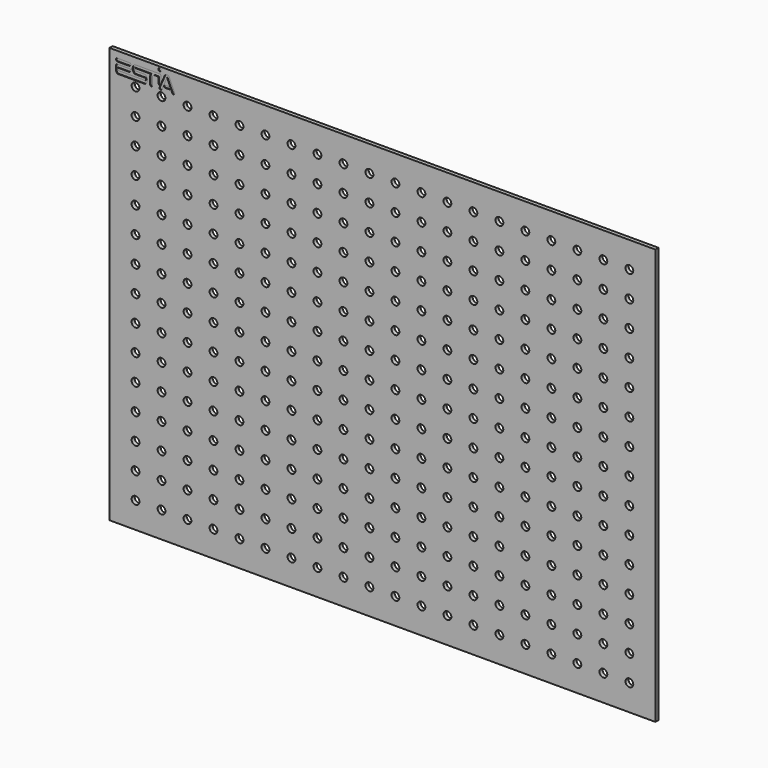
from build123d import *

# Parameters (mm, degrees)
F0_W     = 420
F0_H     = 320
F1_DEPTH = 3
F3_R     = 3
F4_DEPTH = 25
F5_DEPTH = 0.5


with BuildPart() as f1:
    # F0 (on Front) → F1 (new body)
    with BuildSketch(Plane.XZ):
        with Locations((210, 160)):
            Rectangle(F0_W, F0_H)
    extrude(amount=F1_DEPTH)

    # F3 (on face) → F4 (cut)
    with BuildSketch(Plane.XZ.offset(3)):
        with Locations((20, 300)):
            Circle(F3_R)
        with Locations((20, 280)):
            Circle(F3_R)
        with Locations((20, 260)):
            Circle(F3_R)
        with Locations((20, 240)):
            Circle(F3_R)
        with Locations((20, 220)):
            Circle(F3_R)
        with Locations((20, 200)):
            Circle(F3_R)
        with Locations((20, 180)):
            Circle(F3_R)
        with Locations((20, 160)):
            Circle(F3_R)
        with Locations((20, 140)):
            Circle(F3_R)
        with Locations((20, 120)):
            Circle(F3_R)
        with Locations((20, 100)):
            Circle(F3_R)
        with Locations((20, 80)):
            Circle(F3_R)
        with Locations((20, 60)):
            Circle(F3_R)
        with Locations((20, 40)):
            Circle(F3_R)
        with Locations((20, 20)):
            Circle(F3_R)
        with Locations((40, 300)):
            Circle(F3_R)
        with Locations((40, 280)):
            Circle(F3_R)
        with Locations((40, 260)):
            Circle(F3_R)
        with Locations((40, 240)):
            Circle(F3_R)
        with Locations((40, 220)):
            Circle(F3_R)
        with Locations((40, 200)):
            Circle(F3_R)
        with Locations((40, 180)):
            Circle(F3_R)
        with Locations((40, 160)):
            Circle(F3_R)
        with Locations((40, 140)):
            Circle(F3_R)
        with Locations((40, 120)):
            Circle(F3_R)
        with Locations((40, 100)):
            Circle(F3_R)
        with Locations((40, 80)):
            Circle(F3_R)
        with Locations((40, 60)):
            Circle(F3_R)
        with Locations((40, 40)):
            Circle(F3_R)
        with Locations((40, 20)):
            Circle(F3_R)
        with Locations((60, 300)):
            Circle(F3_R)
        with Locations((60, 280)):
            Circle(F3_R)
        with Locations((60, 260)):
            Circle(F3_R)
        with Locations((60, 240)):
            Circle(F3_R)
        with Locations((60, 220)):
            Circle(F3_R)
        with Locations((60, 200)):
            Circle(F3_R)
        with Locations((60, 180)):
            Circle(F3_R)
        with Locations((60, 160)):
            Circle(F3_R)
        with Locations((60, 140)):
            Circle(F3_R)
        with Locations((60, 120)):
            Circle(F3_R)
        with Locations((60, 100)):
            Circle(F3_R)
        with Locations((60, 80)):
            Circle(F3_R)
        with Locations((60, 60)):
            Circle(F3_R)
        with Locations((60, 40)):
            Circle(F3_R)
        with Locations((60, 20)):
            Circle(F3_R)
        with Locations((80, 300)):
            Circle(F3_R)
        with Locations((80, 280)):
            Circle(F3_R)
        with Locations((80, 260)):
            Circle(F3_R)
        with Locations((80, 240)):
            Circle(F3_R)
        with Locations((80, 220)):
            Circle(F3_R)
        with Locations((80, 200)):
            Circle(F3_R)
        with Locations((80, 180)):
            Circle(F3_R)
        with Locations((80, 160)):
            Circle(F3_R)
        with Locations((80, 140)):
            Circle(F3_R)
        with Locations((80, 120)):
            Circle(F3_R)
        with Locations((80, 100)):
            Circle(F3_R)
        with Locations((80, 80)):
            Circle(F3_R)
        with Locations((80, 60)):
            Circle(F3_R)
        with Locations((80, 40)):
            Circle(F3_R)
        with Locations((80, 20)):
            Circle(F3_R)
        with Locations((100, 300)):
            Circle(F3_R)
        with Locations((100, 280)):
            Circle(F3_R)
        with Locations((100, 260)):
            Circle(F3_R)
        with Locations((100, 240)):
            Circle(F3_R)
        with Locations((100, 220)):
            Circle(F3_R)
        with Locations((100, 200)):
            Circle(F3_R)
        with Locations((100, 180)):
            Circle(F3_R)
        with Locations((100, 160)):
            Circle(F3_R)
        with Locations((100, 140)):
            Circle(F3_R)
        with Locations((100, 120)):
            Circle(F3_R)
        with Locations((100, 100)):
            Circle(F3_R)
        with Locations((100, 80)):
            Circle(F3_R)
        with Locations((100, 60)):
            Circle(F3_R)
        with Locations((100, 40)):
            Circle(F3_R)
        with Locations((100, 20)):
            Circle(F3_R)
        with Locations((120, 300)):
            Circle(F3_R)
        with Locations((120, 280)):
            Circle(F3_R)
        with Locations((120, 260)):
            Circle(F3_R)
        with Locations((120, 240)):
            Circle(F3_R)
        with Locations((120, 220)):
            Circle(F3_R)
        with Locations((120, 200)):
            Circle(F3_R)
        with Locations((120, 180)):
            Circle(F3_R)
        with Locations((120, 160)):
            Circle(F3_R)
        with Locations((120, 140)):
            Circle(F3_R)
        with Locations((120, 120)):
            Circle(F3_R)
        with Locations((120, 100)):
            Circle(F3_R)
        with Locations((120, 80)):
            Circle(F3_R)
        with Locations((120, 60)):
            Circle(F3_R)
        with Locations((120, 40)):
            Circle(F3_R)
        with Locations((120, 20)):
            Circle(F3_R)
        with Locations((140, 300)):
            Circle(F3_R)
        with Locations((140, 280)):
            Circle(F3_R)
        with Locations((140, 260)):
            Circle(F3_R)
        with Locations((140, 240)):
            Circle(F3_R)
        with Locations((140, 220)):
            Circle(F3_R)
        with Locations((140, 200)):
            Circle(F3_R)
        with Locations((140, 180)):
            Circle(F3_R)
        with Locations((140, 160)):
            Circle(F3_R)
        with Locations((140, 140)):
            Circle(F3_R)
        with Locations((140, 120)):
            Circle(F3_R)
        with Locations((140, 100)):
            Circle(F3_R)
        with Locations((140, 80)):
            Circle(F3_R)
        with Locations((140, 60)):
            Circle(F3_R)
        with Locations((140, 40)):
            Circle(F3_R)
        with Locations((140, 20)):
            Circle(F3_R)
        with Locations((160, 300)):
            Circle(F3_R)
        with Locations((160, 280)):
            Circle(F3_R)
        with Locations((160, 260)):
            Circle(F3_R)
        with Locations((160, 240)):
            Circle(F3_R)
        with Locations((160, 220)):
            Circle(F3_R)
        with Locations((160, 200)):
            Circle(F3_R)
        with Locations((160, 180)):
            Circle(F3_R)
        with Locations((160, 160)):
            Circle(F3_R)
        with Locations((160, 140)):
            Circle(F3_R)
        with Locations((160, 120)):
            Circle(F3_R)
        with Locations((160, 100)):
            Circle(F3_R)
        with Locations((160, 80)):
            Circle(F3_R)
        with Locations((160, 60)):
            Circle(F3_R)
        with Locations((160, 40)):
            Circle(F3_R)
        with Locations((160, 20)):
            Circle(F3_R)
        with Locations((180, 300)):
            Circle(F3_R)
        with Locations((180, 280)):
            Circle(F3_R)
        with Locations((180, 260)):
            Circle(F3_R)
        with Locations((180, 240)):
            Circle(F3_R)
        with Locations((180, 220)):
            Circle(F3_R)
        with Locations((180, 200)):
            Circle(F3_R)
        with Locations((180, 180)):
            Circle(F3_R)
        with Locations((180, 160)):
            Circle(F3_R)
        with Locations((180, 140)):
            Circle(F3_R)
        with Locations((180, 120)):
            Circle(F3_R)
        with Locations((180, 100)):
            Circle(F3_R)
        with Locations((180, 80)):
            Circle(F3_R)
        with Locations((180, 60)):
            Circle(F3_R)
        with Locations((180, 40)):
            Circle(F3_R)
        with Locations((180, 20)):
            Circle(F3_R)
        with Locations((200, 300)):
            Circle(F3_R)
        with Locations((200, 280)):
            Circle(F3_R)
        with Locations((200, 260)):
            Circle(F3_R)
        with Locations((200, 240)):
            Circle(F3_R)
        with Locations((200, 220)):
            Circle(F3_R)
        with Locations((200, 200)):
            Circle(F3_R)
        with Locations((200, 180)):
            Circle(F3_R)
        with Locations((200, 160)):
            Circle(F3_R)
        with Locations((200, 140)):
            Circle(F3_R)
        with Locations((200, 120)):
            Circle(F3_R)
        with Locations((200, 100)):
            Circle(F3_R)
        with Locations((200, 80)):
            Circle(F3_R)
        with Locations((200, 60)):
            Circle(F3_R)
        with Locations((200, 40)):
            Circle(F3_R)
        with Locations((200, 20)):
            Circle(F3_R)
        with Locations((220, 300)):
            Circle(F3_R)
        with Locations((220, 280)):
            Circle(F3_R)
        with Locations((220, 260)):
            Circle(F3_R)
        with Locations((220, 240)):
            Circle(F3_R)
        with Locations((220, 220)):
            Circle(F3_R)
        with Locations((220, 200)):
            Circle(F3_R)
        with Locations((220, 180)):
            Circle(F3_R)
        with Locations((220, 160)):
            Circle(F3_R)
        with Locations((220, 140)):
            Circle(F3_R)
        with Locations((220, 120)):
            Circle(F3_R)
        with Locations((220, 100)):
            Circle(F3_R)
        with Locations((220, 80)):
            Circle(F3_R)
        with Locations((220, 60)):
            Circle(F3_R)
        with Locations((220, 40)):
            Circle(F3_R)
        with Locations((220, 20)):
            Circle(F3_R)
        with Locations((240, 300)):
            Circle(F3_R)
        with Locations((240, 280)):
            Circle(F3_R)
        with Locations((240, 260)):
            Circle(F3_R)
        with Locations((240, 240)):
            Circle(F3_R)
        with Locations((240, 220)):
            Circle(F3_R)
        with Locations((240, 200)):
            Circle(F3_R)
        with Locations((240, 180)):
            Circle(F3_R)
        with Locations((240, 160)):
            Circle(F3_R)
        with Locations((240, 140)):
            Circle(F3_R)
        with Locations((240, 120)):
            Circle(F3_R)
        with Locations((240, 100)):
            Circle(F3_R)
        with Locations((240, 80)):
            Circle(F3_R)
        with Locations((240, 60)):
            Circle(F3_R)
        with Locations((240, 40)):
            Circle(F3_R)
        with Locations((240, 20)):
            Circle(F3_R)
        with Locations((260, 300)):
            Circle(F3_R)
        with Locations((260, 280)):
            Circle(F3_R)
        with Locations((260, 260)):
            Circle(F3_R)
        with Locations((260, 240)):
            Circle(F3_R)
        with Locations((260, 220)):
            Circle(F3_R)
        with Locations((260, 200)):
            Circle(F3_R)
        with Locations((260, 180)):
            Circle(F3_R)
        with Locations((260, 160)):
            Circle(F3_R)
        with Locations((260, 140)):
            Circle(F3_R)
        with Locations((260, 120)):
            Circle(F3_R)
        with Locations((260, 100)):
            Circle(F3_R)
        with Locations((260, 80)):
            Circle(F3_R)
        with Locations((260, 60)):
            Circle(F3_R)
        with Locations((260, 40)):
            Circle(F3_R)
        with Locations((260, 20)):
            Circle(F3_R)
        with Locations((280, 300)):
            Circle(F3_R)
        with Locations((280, 280)):
            Circle(F3_R)
        with Locations((280, 260)):
            Circle(F3_R)
        with Locations((280, 240)):
            Circle(F3_R)
        with Locations((280, 220)):
            Circle(F3_R)
        with Locations((280, 200)):
            Circle(F3_R)
        with Locations((280, 180)):
            Circle(F3_R)
        with Locations((280, 160)):
            Circle(F3_R)
        with Locations((280, 140)):
            Circle(F3_R)
        with Locations((280, 120)):
            Circle(F3_R)
        with Locations((280, 100)):
            Circle(F3_R)
        with Locations((280, 80)):
            Circle(F3_R)
        with Locations((280, 60)):
            Circle(F3_R)
        with Locations((280, 40)):
            Circle(F3_R)
        with Locations((280, 20)):
            Circle(F3_R)
        with Locations((300, 300)):
            Circle(F3_R)
        with Locations((300, 280)):
            Circle(F3_R)
        with Locations((300, 260)):
            Circle(F3_R)
        with Locations((300, 240)):
            Circle(F3_R)
        with Locations((300, 220)):
            Circle(F3_R)
        with Locations((300, 200)):
            Circle(F3_R)
        with Locations((300, 180)):
            Circle(F3_R)
        with Locations((300, 160)):
            Circle(F3_R)
        with Locations((300, 140)):
            Circle(F3_R)
        with Locations((300, 120)):
            Circle(F3_R)
        with Locations((300, 100)):
            Circle(F3_R)
        with Locations((300, 80)):
            Circle(F3_R)
        with Locations((300, 60)):
            Circle(F3_R)
        with Locations((300, 40)):
            Circle(F3_R)
        with Locations((300, 20)):
            Circle(F3_R)
        with Locations((320, 300)):
            Circle(F3_R)
        with Locations((320, 280)):
            Circle(F3_R)
        with Locations((320, 260)):
            Circle(F3_R)
        with Locations((320, 240)):
            Circle(F3_R)
        with Locations((320, 220)):
            Circle(F3_R)
        with Locations((320, 200)):
            Circle(F3_R)
        with Locations((320, 180)):
            Circle(F3_R)
        with Locations((320, 160)):
            Circle(F3_R)
        with Locations((320, 140)):
            Circle(F3_R)
        with Locations((320, 120)):
            Circle(F3_R)
        with Locations((320, 100)):
            Circle(F3_R)
        with Locations((320, 80)):
            Circle(F3_R)
        with Locations((320, 60)):
            Circle(F3_R)
        with Locations((320, 40)):
            Circle(F3_R)
        with Locations((320, 20)):
            Circle(F3_R)
        with Locations((340, 300)):
            Circle(F3_R)
        with Locations((340, 280)):
            Circle(F3_R)
        with Locations((340, 260)):
            Circle(F3_R)
        with Locations((340, 240)):
            Circle(F3_R)
        with Locations((340, 220)):
            Circle(F3_R)
        with Locations((340, 200)):
            Circle(F3_R)
        with Locations((340, 180)):
            Circle(F3_R)
        with Locations((340, 160)):
            Circle(F3_R)
        with Locations((340, 140)):
            Circle(F3_R)
        with Locations((340, 120)):
            Circle(F3_R)
        with Locations((340, 100)):
            Circle(F3_R)
        with Locations((340, 80)):
            Circle(F3_R)
        with Locations((340, 60)):
            Circle(F3_R)
        with Locations((340, 40)):
            Circle(F3_R)
        with Locations((340, 20)):
            Circle(F3_R)
        with Locations((360, 300)):
            Circle(F3_R)
        with Locations((360, 280)):
            Circle(F3_R)
        with Locations((360, 260)):
            Circle(F3_R)
        with Locations((360, 240)):
            Circle(F3_R)
        with Locations((360, 220)):
            Circle(F3_R)
        with Locations((360, 200)):
            Circle(F3_R)
        with Locations((360, 180)):
            Circle(F3_R)
        with Locations((360, 160)):
            Circle(F3_R)
        with Locations((360, 140)):
            Circle(F3_R)
        with Locations((360, 120)):
            Circle(F3_R)
        with Locations((360, 100)):
            Circle(F3_R)
        with Locations((360, 80)):
            Circle(F3_R)
        with Locations((360, 60)):
            Circle(F3_R)
        with Locations((360, 40)):
            Circle(F3_R)
        with Locations((360, 20)):
            Circle(F3_R)
        with Locations((380, 300)):
            Circle(F3_R)
        with Locations((380, 280)):
            Circle(F3_R)
        with Locations((380, 260)):
            Circle(F3_R)
        with Locations((380, 240)):
            Circle(F3_R)
        with Locations((380, 220)):
            Circle(F3_R)
        with Locations((380, 200)):
            Circle(F3_R)
        with Locations((380, 180)):
            Circle(F3_R)
        with Locations((380, 160)):
            Circle(F3_R)
        with Locations((380, 140)):
            Circle(F3_R)
        with Locations((380, 120)):
            Circle(F3_R)
        with Locations((380, 100)):
            Circle(F3_R)
        with Locations((380, 80)):
            Circle(F3_R)
        with Locations((380, 60)):
            Circle(F3_R)
        with Locations((380, 40)):
            Circle(F3_R)
        with Locations((380, 20)):
            Circle(F3_R)
        with Locations((400, 300)):
            Circle(F3_R)
        with Locations((400, 280)):
            Circle(F3_R)
        with Locations((400, 260)):
            Circle(F3_R)
        with Locations((400, 240)):
            Circle(F3_R)
        with Locations((400, 220)):
            Circle(F3_R)
        with Locations((400, 200)):
            Circle(F3_R)
        with Locations((400, 180)):
            Circle(F3_R)
        with Locations((400, 160)):
            Circle(F3_R)
        with Locations((400, 140)):
            Circle(F3_R)
        with Locations((400, 120)):
            Circle(F3_R)
        with Locations((400, 100)):
            Circle(F3_R)
        with Locations((400, 80)):
            Circle(F3_R)
        with Locations((400, 60)):
            Circle(F3_R)
        with Locations((400, 40)):
            Circle(F3_R)
        with Locations((400, 20)):
            Circle(F3_R)
    extrude(amount=-F4_DEPTH, mode=Mode.SUBTRACT)

    # F2 (on face) → F5 (cut)
    with BuildSketch(Plane.XZ.offset(3)):
        with BuildLine():
            ThreePointArc((6.71782, 306.8429), (6.448412, 306.954492), (6.33682, 307.2239))
            Line((6.33682, 307.2239), (6.33682, 308.63755))
            Line((6.33682, 308.63755), (15.33643, 308.63755))
            ThreePointArc((15.33643, 308.63755), (16.47943, 309.78055), (15.33643, 310.92355))
            Line((15.33643, 310.92355), (6.2, 310.92355))
            ThreePointArc((6.2, 310.92355), (5.351472, 310.572078), (5, 309.72355))
            Line((5, 309.72355), (5, 306.787552))
            ThreePointArc((5, 306.787552), (5.357737, 305.439405), (6.33682, 304.44599))
            Line((6.33682, 304.44599), (27.39753, 304.44599))
            ThreePointArc((27.39753, 304.44599), (29.195367, 307.641355), (27.561422, 310.92355))
            Line((27.561422, 310.92355), (19.375255, 310.92355))
            ThreePointArc((19.375255, 310.92355), (19.062975, 311.825114), (19.409698, 312.714))
            Line((19.409698, 312.714), (31.785914, 312.714))
            ThreePointArc((31.785914, 312.714), (31.414047, 311.842341), (31.28705, 310.90322))
            Line((31.28705, 310.90322), (31.28705, 305.30333))
            ThreePointArc((31.28705, 305.30333), (32.14957, 304.44081), (33.01209, 305.30333))
            Line((33.01209, 305.30333), (33.01209, 310.90322))
            ThreePointArc((33.01209, 310.90322), (33.542455, 312.183635), (34.82287, 312.714))
            Line((34.82287, 312.714), (37.81209, 312.714))
            Line((37.81209, 312.714), (37.81209, 308.44028))
            ThreePointArc((37.81209, 308.44028), (37.91665, 307.801661), (38.219411, 307.229732))
            Line((38.219411, 307.229732), (39.52885, 310.226624))
            Line((39.52885, 310.226624), (39.52885, 314.0475))
            ThreePointArc((39.52885, 314.0475), (39.249869, 314.721019), (38.57635, 315))
            Line((38.57635, 315), (19.432279, 315))
            ThreePointArc((19.432279, 315), (17.771474, 311.833238), (19.375916, 308.63755))
            Line((19.375916, 308.63755), (27.5578, 308.63755))
            ThreePointArc((27.5578, 308.63755), (27.99017, 307.740119), (27.557361, 306.8429))
            Line((27.557361, 306.8429), (6.71782, 306.8429))
        make_face()
        with BuildLine():
            ThreePointArc((6.2, 315), (5.057, 313.857), (6.2, 312.714))
            Line((6.2, 312.714), (15.33643, 312.714))
            ThreePointArc((15.33643, 312.714), (16.47943, 313.857), (15.33643, 315))
            Line((15.33643, 315), (6.2, 315))
        make_face()
        with BuildLine():
            Line((40.209946, 304.912605), (44.276015, 314.21855))
            Line((44.276015, 314.21855), (48.342084, 304.912605))
            ThreePointArc((48.342084, 304.912605), (49.627055, 304.409084), (50.130576, 305.694055))
            Line((50.130576, 305.694055), (46.064507, 315))
            ThreePointArc((46.064507, 315), (44.276015, 316.17031), (42.487523, 315))
            Line((42.487523, 315), (38.421454, 305.694055))
            ThreePointArc((38.421454, 305.694055), (38.924975, 304.409084), (40.209946, 304.912605))
        make_face()
        with BuildLine():
            ThreePointArc((42.776015, 308.63755), (41.87869, 307.740225), (42.776015, 306.8429))
            Line((42.776015, 306.8429), (45.776015, 306.8429))
            ThreePointArc((45.776015, 306.8429), (46.67334, 307.740225), (45.776015, 308.63755))
            Line((45.776015, 308.63755), (42.776015, 308.63755))
        make_face()
        with BuildLine():
            add(Edge.make_bspline(
                [(38.57635, 319.224755), (37.017504, 319.224755), (37.796927, 317.224137), (38.57635, 315.22352), (39.355773, 317.224137), (40.135196, 319.224755), (38.57635, 319.224755)],
                knots=[0, 0, 0, 2.094395, 2.094395, 4.18879, 4.18879, 6.283185, 6.283185, 6.283185], degree=2, weights=[1, 0.5, 1, 0.5, 1, 0.5, 1]))
        make_face()
    extrude(amount=-F5_DEPTH, mode=Mode.SUBTRACT)


solid = f1.part
